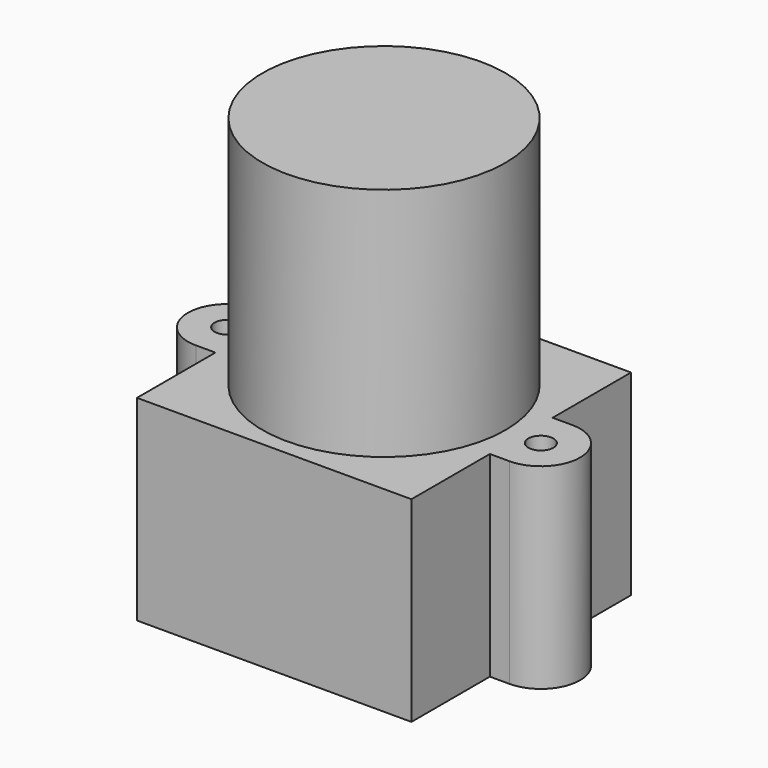
from build123d import *

# Parameters (mm, degrees)
F0_W     = 17.5
F0_H     = 17.5
F1_DEPTH = 12.5
F2_R     = 7.75
F3_DEPTH = 15
F5_DEPTH = 12.5
F6_D     = 1.6
F6_DEPTH = 4
F6_TIP   = 0.4806884952
F7_W     = 5.7
F7_H     = 5
F8_DEPTH = 6
F9_W     = 2.6
F9_H     = 5.5


with BuildPart() as f1:
    # F0 (on Top) → F1 (new body)
    with BuildSketch(Plane.XY):
        Rectangle(F0_W, F0_H)
    extrude(amount=F1_DEPTH)

    # F2 (on face) → F3 (join)
    with BuildSketch(Plane.XY.offset(12.5)):
        Circle(F2_R)
    extrude(amount=F3_DEPTH)

    # F4 (on face) → F5 (join, through all)
    with BuildSketch(Plane.XY.offset(12.5)):
        with BuildLine():
            Line((10, 2.5), (-10, 2.5))
            ThreePointArc((-10, 2.5), (-12.5, 0), (-10, -2.5))
            Line((-10, -2.5), (10, -2.5))
            ThreePointArc((10, -2.5), (12.5, 0), (10, 2.5))
        make_face()
    extrude(amount=-F5_DEPTH)

    # F6
    with Locations(Plane.XY.offset(12.5)):
        with Locations((-10, 0), (10, 0)):
            Hole(F6_D / 2, depth=F6_DEPTH)
            with Locations((0, 0, -(F6_DEPTH + F6_TIP / 2))):  # 118° drill point
                Cone(0, F6_D / 2, F6_TIP, mode=Mode.SUBTRACT)

    # F7 (on Top) → F8 (join)
    with BuildSketch(Plane.XY):
        with Locations((-2.35, 5.25)):
            Rectangle(F7_W, F7_H)
    extrude(amount=-F8_DEPTH)

    # F9 (on face) → F10 (join, up to the next surface of F1)
    with BuildSketch(Plane(origin=(0, 8.75, 0), x_dir=(-1, 0, 0), z_dir=(0, 1, 0))):
        with Locations((0, 15.25)):
            Rectangle(F9_W, F9_H)
    extrude(until=Until.NEXT, dir=(0, -1, 0))


solid = f1.part
